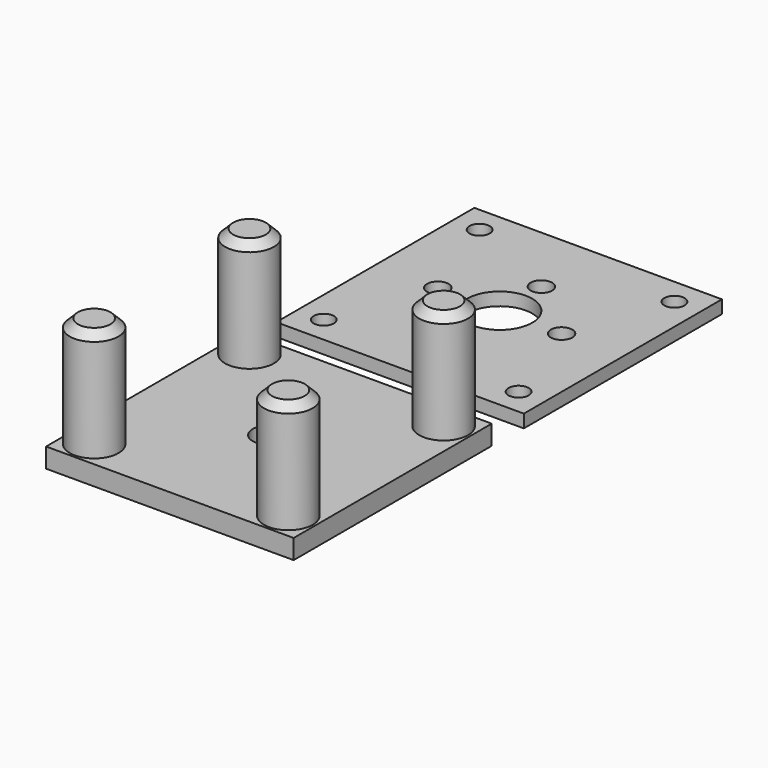
from build123d import *

# Parameters (mm, degrees)
F0_W     = 38
F0_H     = 38
F0_R     = 1.55
F0_R_2   = 1.65
F0_R_3   = 5
F1_DEPTH = 2
F0_R_4   = 3.75
F0_R_5   = 2.5
F2_DEPTH = 3
F0_R_6   = 1.4
F3_DEPTH = 20
F4_DEPTH = 20
F5_SIZE  = 1.25
F6_DEPTH = 2


with BuildPart() as f1:
    # F0 (on Top) → F1 (new body)
    with BuildSketch(Plane.XY):
        with Locations((19.181493, 24.937662)):
            Rectangle(F0_W, F0_H)
        with Locations((4.231493, 9.987662)):
            Circle(F0_R, mode=Mode.SUBTRACT)
        with Locations((4.23103, 39.888125)):
            Circle(F0_R, mode=Mode.SUBTRACT)
        with Locations((9.731495, 24.987662)):
            Circle(F0_R_2, mode=Mode.SUBTRACT)
        with Locations((19.231495, 16.987662)):
            Circle(F0_R_2, mode=Mode.SUBTRACT)
        with Locations((34.131493, 9.987662)):
            Circle(F0_R, mode=Mode.SUBTRACT)
        with Locations((19.231495, 24.987662)):
            Circle(F0_R_3, mode=Mode.SUBTRACT)
        with Locations((19.231495, 32.987662)):
            Circle(F0_R_2, mode=Mode.SUBTRACT)
        with Locations((28.731495, 24.987662)):
            Circle(F0_R_2, mode=Mode.SUBTRACT)
        with Locations((34.13103, 39.887199)):
            Circle(F0_R, mode=Mode.SUBTRACT)
    extrude(amount=F1_DEPTH)


with BuildPart() as f2:
    # F0 (on Top) → F2 (new body)
    with BuildSketch(Plane.XY):
        with Locations((19, -19)):
            Rectangle(F0_W, F0_H)
        with Locations((4.1, -33.9)):
            Circle(F0_R_4, mode=Mode.SUBTRACT)
        with Locations((19, -19)):
            Circle(F0_R_5, mode=Mode.SUBTRACT)
        with Locations((4.099627, -4.099627)):
            Circle(F0_R_4, mode=Mode.SUBTRACT)
        with Locations((33.9, -33.9)):
            Circle(F0_R_4, mode=Mode.SUBTRACT)
        with Locations((33.899627, -4.100373)):
            Circle(F0_R_4, mode=Mode.SUBTRACT)
    extrude(amount=F2_DEPTH)



with BuildPart() as f3:
    # F0 (on Top) → F3 (new body)
    with BuildSketch(Plane.XY):
        with Locations((33.9, -33.9)):
            Circle(F0_R_6)
        with Locations((4.1, -33.9)):
            Circle(F0_R_6)
        with Locations((4.099627, -4.099627)):
            Circle(F0_R_6)
        with Locations((33.899627, -4.100373)):
            Circle(F0_R_6)
    extrude(amount=F3_DEPTH)


with BuildPart() as f2_1:
    add(f2.part)

    add(f3.part)  # F4 merges F3
    # F0 (on Top) → F4 (join)
    with BuildSketch(Plane.XY):
        with Locations((4.099627, -4.099627)):
            Circle(F0_R_4)
        with Locations((4.099627, -4.099627)):
            Circle(F0_R_6, mode=Mode.SUBTRACT)
        with Locations((4.1, -33.9)):
            Circle(F0_R_4)
        with Locations((4.1, -33.9)):
            Circle(F0_R_6, mode=Mode.SUBTRACT)
        with Locations((33.9, -33.9)):
            Circle(F0_R_4)
        with Locations((33.9, -33.9)):
            Circle(F0_R_6, mode=Mode.SUBTRACT)
        with Locations((33.899627, -4.100373)):
            Circle(F0_R_4)
        with Locations((33.899627, -4.100373)):
            Circle(F0_R_6, mode=Mode.SUBTRACT)
    extrude(amount=F4_DEPTH)

    # F5
    f5_edges = [f2_1.edges().sort_by_distance(p)[0] for p in [
        (0.349627, -4.099627, 20),
        (30.149627, -4.100373, 20),
        (30.15, -33.9, 20),
        (0.35, -33.9, 20),
    ]]
    chamfer(f5_edges, length=F5_SIZE)


with BuildPart() as f6:
    # F0 (on Top) → F6 (new body)
    with BuildSketch(Plane.XY):
        with Locations((19.181493, 24.937662)):
            Rectangle(F0_W, F0_H)
        with Locations((4.231493, 9.987662)):
            Circle(F0_R, mode=Mode.SUBTRACT)
        with Locations((4.23103, 39.888125)):
            Circle(F0_R, mode=Mode.SUBTRACT)
        with Locations((9.731495, 24.987662)):
            Circle(F0_R_2, mode=Mode.SUBTRACT)
        with Locations((19.231495, 16.987662)):
            Circle(F0_R_2, mode=Mode.SUBTRACT)
        with Locations((34.131493, 9.987662)):
            Circle(F0_R, mode=Mode.SUBTRACT)
        with Locations((19.231495, 24.987662)):
            Circle(F0_R_3, mode=Mode.SUBTRACT)
        with Locations((19.231495, 32.987662)):
            Circle(F0_R_2, mode=Mode.SUBTRACT)
        with Locations((28.731495, 24.987662)):
            Circle(F0_R_2, mode=Mode.SUBTRACT)
        with Locations((34.13103, 39.887199)):
            Circle(F0_R, mode=Mode.SUBTRACT)
    extrude(amount=F6_DEPTH)


solid = Compound([f1.part, f2_1.part, f6.part])
